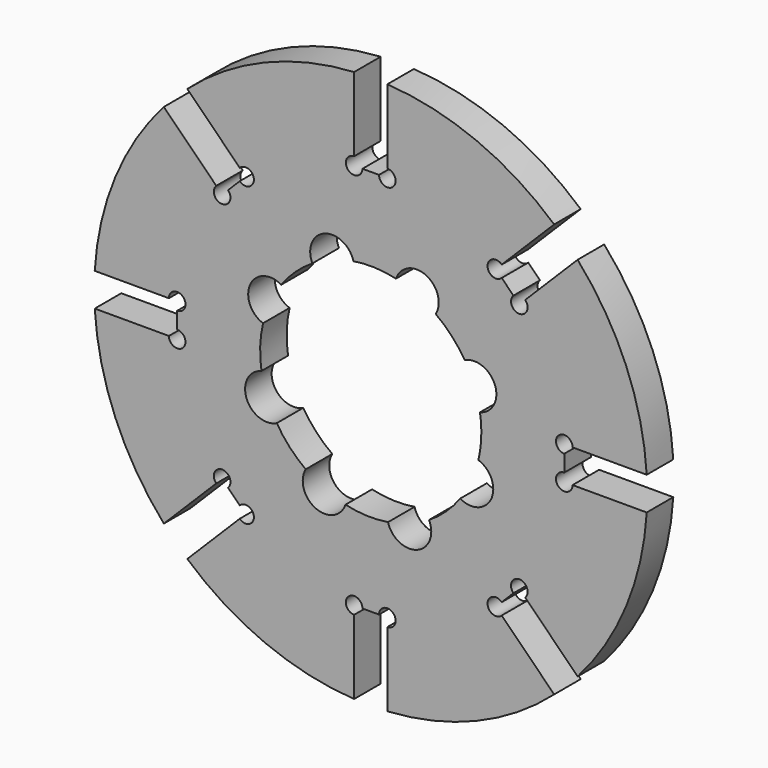
from build123d import *

# Parameters (mm, degrees)
F2_DEPTH = 3


with BuildPart() as f2:
    # F1 (on Front) → F2 (new body)
    with BuildSketch(Plane.XZ):
        with BuildLine():
            Line((18.25, 1.5), (24.9549594269, 1.5))
            ThreePointArc((24.9549594269, 1.5), (23.0969883128, 9.5670858091), (18.7064812068, 16.5851608632))
            Line((18.7064812068, 16.5851608632), (13.9653589284, 11.8440385849))
            ThreePointArc((13.9653589284, 11.8440385849), (14.1279384919, 11.6007210733), (14.1850288425, 11.313708499))
            ThreePointArc((14.1850288425, 11.313708499), (13.1480162683, 10.6207988496), (12.9046987567, 11.8440385849))
            Line((12.9046987567, 11.8440385849), (11.8440385849, 12.9046987567))
            ThreePointArc((11.8440385849, 12.9046987567), (10.563708499, 13.4350288425), (11.8440385849, 13.9653589284))
            Line((11.8440385849, 13.9653589284), (16.5851608632, 18.7064812068))
            ThreePointArc((16.5851608632, 18.7064812068), (9.5670858091, 23.0969883128), (1.5, 24.9549594269))
            Line((1.5, 24.9549594269), (1.5, 18.25))
            ThreePointArc((1.5, 18.25), (2.0303300859, 18.0303300859), (2.25, 17.5))
            ThreePointArc((2.25, 17.5), (1.5, 16.75), (0.75, 17.5))
            Line((0.75, 17.5), (-0.75, 17.5))
            ThreePointArc((-0.75, 17.5), (-2.0303300859, 16.9696699141), (-1.5, 18.25))
            Line((-1.5, 18.25), (-1.5, 24.9549594269))
            ThreePointArc((-1.5, 24.9549594269), (-9.5670858091, 23.0969883128), (-16.5851608632, 18.7064812068))
            Line((-16.5851608632, 18.7064812068), (-11.8440385849, 13.9653589284))
            ThreePointArc((-11.8440385849, 13.9653589284), (-11.0266959247, 14.1279384919), (-10.563708499, 13.4350288425))
            ThreePointArc((-10.563708499, 13.4350288425), (-11.0266959247, 12.7421191932), (-11.8440385849, 12.9046987567))
            Line((-11.8440385849, 12.9046987567), (-12.9046987567, 11.8440385849))
            ThreePointArc((-12.9046987567, 11.8440385849), (-12.7421191932, 11.6007210733), (-12.6850288425, 11.313708499))
            ThreePointArc((-12.6850288425, 11.313708499), (-13.7220414168, 10.6207988496), (-13.9653589284, 11.8440385849))
            Line((-13.9653589284, 11.8440385849), (-18.7064812068, 16.5851608632))
            ThreePointArc((-18.7064812068, 16.5851608632), (-23.0969883128, 9.5670858091), (-24.9549594269, 1.5))
            Line((-24.9549594269, 1.5), (-18.25, 1.5))
            ThreePointArc((-18.25, 1.5), (-17.5, 2.25), (-16.75, 1.5))
            ThreePointArc((-16.75, 1.5), (-16.9696699141, 0.9696699141), (-17.5, 0.75))
            Line((-17.5, 0.75), (-17.5, -0.75))
            ThreePointArc((-17.5, -0.75), (-16.9696699141, -0.9696699141), (-16.75, -1.5))
            ThreePointArc((-16.75, -1.5), (-17.5, -2.25), (-18.25, -1.5))
            Line((-18.25, -1.5), (-24.9549594269, -1.5))
            ThreePointArc((-24.9549594269, -1.5), (-23.0969883128, -9.5670858091), (-18.7064812068, -16.5851608632))
            Line((-18.7064812068, -16.5851608632), (-13.9653589284, -11.8440385849))
            ThreePointArc((-13.9653589284, -11.8440385849), (-13.7220414168, -10.6207988496), (-12.6850288425, -11.313708499))
            ThreePointArc((-12.6850288425, -11.313708499), (-12.7421191932, -11.6007210733), (-12.9046987567, -11.8440385849))
            Line((-12.9046987567, -11.8440385849), (-11.8440385849, -12.9046987567))
            ThreePointArc((-11.8440385849, -12.9046987567), (-11.0266959247, -12.7421191932), (-10.563708499, -13.4350288425))
            ThreePointArc((-10.563708499, -13.4350288425), (-11.0266959247, -14.1279384919), (-11.8440385849, -13.9653589284))
            Line((-11.8440385849, -13.9653589284), (-16.5851608632, -18.7064812068))
            ThreePointArc((-16.5851608632, -18.7064812068), (-9.5670858091, -23.0969883128), (-1.5, -24.9549594269))
            Line((-1.5, -24.9549594269), (-1.5, -18.25))
            ThreePointArc((-1.5, -18.25), (-2.0303300859, -16.9696699141), (-0.75, -17.5))
            Line((-0.75, -17.5), (0.75, -17.5))
            ThreePointArc((0.75, -17.5), (1.5, -16.75), (2.25, -17.5))
            ThreePointArc((2.25, -17.5), (2.0303300859, -18.0303300859), (1.5, -18.25))
            Line((1.5, -18.25), (1.5, -24.9549594269))
            ThreePointArc((1.5, -24.9549594269), (9.5670858091, -23.0969883128), (16.5851608632, -18.7064812068))
            Line((16.5851608632, -18.7064812068), (11.8440385849, -13.9653589284))
            ThreePointArc((11.8440385849, -13.9653589284), (10.563708499, -13.4350288425), (11.8440385849, -12.9046987567))
            Line((11.8440385849, -12.9046987567), (12.9046987567, -11.8440385849))
            ThreePointArc((12.9046987567, -11.8440385849), (13.1480162683, -10.6207988496), (14.1850288425, -11.313708499))
            ThreePointArc((14.1850288425, -11.313708499), (14.1279384919, -11.6007210733), (13.9653589284, -11.8440385849))
            Line((13.9653589284, -11.8440385849), (18.7064812068, -16.5851608632))
            ThreePointArc((18.7064812068, -16.5851608632), (23.0969883128, -9.5670858091), (24.9549594269, -1.5))
            Line((24.9549594269, -1.5), (18.25, -1.5))
            ThreePointArc((18.25, -1.5), (16.9696699141, -2.0303300859), (17.5, -0.75))
            Line((17.5, -0.75), (17.5, 0.75))
            ThreePointArc((17.5, 0.75), (16.9696699141, 2.0303300859), (18.25, 1.5))
        make_face()
        with BuildLine():
            ThreePointArc((9.8767656083, 1.5650882145), (9.9691437968, 0.7849662149), (10, 0))
            ThreePointArc((10, 0), (9.9338326925, -1.1484633378), (9.7362063924, -2.2817285302))
            ThreePointArc((9.7362063924, -2.2817285302), (10.7093913456, -3.0062809605), (11.0798284208, -4.1616343917))
            ThreePointArc((11.0798284208, -4.1616343917), (10.081943125, -5.884910827), (8.0906124274, -5.8772434482))
            ThreePointArc((8.0906124274, -5.8772434482), (6.8081540818, -7.3245503615), (5.2711118466, -8.4979632796))
            ThreePointArc((5.2711118466, -8.4979632796), (5.4225096089, -8.9235676616), (5.4738602751, -9.3723699359))
            ThreePointArc((5.4738602751, -9.3723699359), (3.7412190824, -11.3429608382), (1.5650882145, -9.8767656083))
            ThreePointArc((1.5650882145, -9.8767656083), (-0.3651473111, -9.9933311484), (-2.2817285302, -9.7362063924))
            ThreePointArc((-2.2817285302, -9.7362063924), (-4.9885220711, -10.8995936469), (-5.8772434482, -8.0906124274))
            ThreePointArc((-5.8772434482, -8.0906124274), (-7.3245503615, -6.8081540818), (-8.4979632796, -5.2711118466))
            ThreePointArc((-8.4979632796, -5.2711118466), (-11.2345943645, -4.1797587953), (-9.8767656083, -1.5650882145))
            ThreePointArc((-9.8767656083, -1.5650882145), (-9.9933311484, 0.3651473111), (-9.7362063924, 2.2817285302))
            ThreePointArc((-9.7362063924, 2.2817285302), (-10.8995936469, 4.9885220711), (-8.0906124274, 5.8772434482))
            ThreePointArc((-8.0906124274, 5.8772434482), (-6.8081540818, 7.3245503615), (-5.2711118466, 8.4979632796))
            ThreePointArc((-5.2711118466, 8.4979632796), (-4.1797587953, 11.2345943645), (-1.5650882145, 9.8767656083))
            ThreePointArc((-1.5650882145, 9.8767656083), (0.3651473111, 9.9933311484), (2.2817285302, 9.7362063924))
            ThreePointArc((2.2817285302, 9.7362063924), (4.487709352, 11.0528897352), (6.1485645292, 9.0928982833))
            ThreePointArc((6.1485645292, 9.0928982833), (6.0795351595, 8.5737181445), (5.8772434482, 8.0906124274))
            ThreePointArc((5.8772434482, 8.0906124274), (7.3245503615, 6.8081540818), (8.4979632796, 5.2711118466))
            ThreePointArc((8.4979632796, 5.2711118466), (10.423680174, 5.1729426389), (11.3593000735, 3.4869301375))
            ThreePointArc((11.3593000735, 3.4869301375), (10.9455975631, 2.2733213849), (9.8767656083, 1.5650882145))
        make_face(mode=Mode.SUBTRACT)
    extrude(amount=F2_DEPTH)


solid = f2.part
